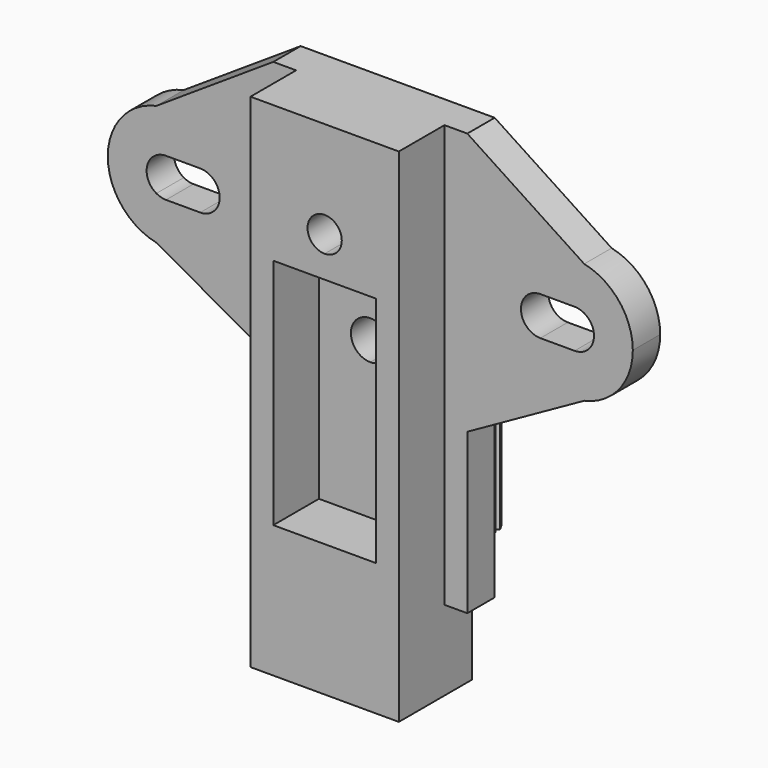
from build123d import *

# Parameters (mm, degrees)
F0_W     = 2
F0_H     = 20.4
F0_W_2   = 6.5
F0_H_2   = 7
F1_DEPTH = 8
F2_DEPTH = 3
F4_DEPTH = 13


with BuildPart() as f1:
    # F0 (on Front) → F1 (new body)
    with BuildSketch(Plane.XZ):
        with BuildLine():
            Line((-6.5, 37), (-6.5, 25))
            Line((-6.5, 25), (-4.5, 25))
            Line((-4.5, 25), (0, 25))
            Line((0, 25), (0, 27))
            ThreePointArc((0, 27), (-1.5, 28.5), (0, 30))
            Line((0, 30), (0, 37))
            Line((0, 37), (-6.5, 37))
        make_face()
        with BuildLine():
            Line((0, 25), (4.5, 25))
            Line((4.5, 25), (6.5, 25))
            Line((6.5, 25), (6.5, 37))
            Line((6.5, 37), (0, 37))
            Line((0, 37), (0, 30))
            ThreePointArc((0, 30), (1.0606601718, 29.5606601718), (1.5, 28.5))
            ThreePointArc((1.5, 28.5), (1.0606601718, 27.4393398282), (0, 27))
            Line((0, 27), (0, 25))
        make_face()
        with Locations((5.5, 14.8)):
            Rectangle(F0_W, F0_H)
        Polygon((0, 4.6), (0, 0), (6.5, 0), (6.5, 4.6), (4.5, 4.6), align=None)
        Polygon((-6.5, 0), (0, 0), (0, 4.6), (-4.5, 4.6), (-6.5, 4.6), align=None)
        with Locations((-3.25, -3.5)):
            Rectangle(F0_W_2, F0_H_2)
        with Locations((3.25, -3.5)):
            Rectangle(F0_W_2, F0_H_2)
        with Locations((-5.5, 14.8)):
            Rectangle(F0_W, F0_H)
    extrude(amount=F1_DEPTH)

    # F0 (on Front) → F2 (join)
    with BuildSketch(Plane.XZ):
        Polygon((-8.5, 0), (-6.5, 0), (-6.5, 4.6), (-6.5, 25), (-6.5, 37), (-8.5, 37), (-8.5, 14), align=None)
        with BuildLine():
            Line((-18.7444198489, 19.7226613516), (-8.5, 14))
            Line((-8.5, 14), (-8.5, 37))
            Line((-8.5, 37), (-18.7444198489, 30.2773386484))
            ThreePointArc((-18.7444198489, 30.2773386484), (-14.2102999531, 29.2035620124), (-12.2, 25))
            ThreePointArc((-12.2, 25), (-14.2102999531, 20.7964379876), (-18.7444198489, 19.7226613516))
        make_face()
        with BuildLine():
            Line((-4.5, 4.6), (0, 4.6))
            Line((0, 4.6), (0, 15.1))
            ThreePointArc((0, 15.1), (-3.2, 18.3), (0, 21.5))
            Line((0, 21.5), (0, 25))
            Line((0, 25), (-4.5, 25))
            Line((-4.5, 25), (-4.5, 4.6))
        make_face()
        with BuildLine():
            Line((0, 15.1), (0, 4.6))
            Line((0, 4.6), (4.5, 4.6))
            Line((4.5, 4.6), (4.5, 25))
            Line((4.5, 25), (0, 25))
            Line((0, 25), (0, 21.5))
            ThreePointArc((0, 21.5), (2.2627416998, 20.5627416998), (3.2, 18.3))
            ThreePointArc((3.2, 18.3), (2.2627416998, 16.0372583002), (0, 15.1))
        make_face()
        with BuildLine():
            Line((8.5, 37), (8.5, 14))
            Line((8.5, 14), (18.7444198489, 19.7226613516))
            ThreePointArc((18.7444198489, 19.7226613516), (12.2, 25), (18.7444198489, 30.2773386484))
            Line((18.7444198489, 30.2773386484), (8.5, 37))
        make_face()
        Polygon((6.5, 4.6), (6.5, 0), (8.5, 0), (8.5, 14), (8.5, 37), (6.5, 37), (6.5, 25), align=None)
        with BuildLine():
            Line((-18.7444198489, 23.5245491812), (-18.7444198489, 19.7226613516))
            ThreePointArc((-18.7444198489, 19.7226613516), (-14.2102999531, 20.7964379876), (-12.2, 25))
            ThreePointArc((-12.2, 25), (-14.2102999531, 29.2035620124), (-18.7444198489, 30.2773386484))
            Line((-18.7444198489, 30.2773386484), (-18.7444198489, 26.4754508188))
            ThreePointArc((-18.7444198489, 26.4754508188), (-18.3368830553, 26.6429038913), (-17.9, 26.7))
            Line((-17.9, 26.7), (-14.8999996376, 26.7))
            ThreePointArc((-14.8999996376, 26.7), (-13.6979183439, 26.2020813999), (-13.2, 25))
            ThreePointArc((-13.2, 25), (-13.6979183439, 23.7979186001), (-14.8999996376, 23.3))
            Line((-14.8999996376, 23.3), (-17.9, 23.3))
            ThreePointArc((-17.9, 23.3), (-18.3368830553, 23.3570961087), (-18.7444198489, 23.5245491812))
        make_face()
        with BuildLine():
            ThreePointArc((-18.7444198489, 30.2773386484), (-23, 25), (-18.7444198489, 19.7226613516))
            Line((-18.7444198489, 19.7226613516), (-18.7444198489, 23.5245491812))
            ThreePointArc((-18.7444198489, 23.5245491812), (-19.6, 25), (-18.7444198489, 26.4754508188))
            Line((-18.7444198489, 26.4754508188), (-18.7444198489, 30.2773386484))
        make_face()
        with BuildLine():
            Line((18.7444198489, 23.5245491812), (18.7444198489, 19.7226613516))
            ThreePointArc((18.7444198489, 19.7226613516), (21.8035620124, 21.6102999531), (23, 25))
            ThreePointArc((23, 25), (21.8035620124, 28.3897000469), (18.7444198489, 30.2773386484))
            Line((18.7444198489, 30.2773386484), (18.7444198489, 26.4754508188))
            ThreePointArc((18.7444198489, 26.4754508188), (19.3706314534, 25.8527855114), (19.6, 25))
            ThreePointArc((19.6, 25), (19.3706314534, 24.1472144886), (18.7444198489, 23.5245491812))
        make_face()
        with BuildLine():
            ThreePointArc((18.7444198489, 30.2773386484), (12.2, 25), (18.7444198489, 19.7226613516))
            Line((18.7444198489, 19.7226613516), (18.7444198489, 23.5245491812))
            ThreePointArc((18.7444198489, 23.5245491812), (18.3368830553, 23.3570961087), (17.9, 23.3))
            Line((17.9, 23.3), (14.8999996376, 23.3))
            ThreePointArc((14.8999996376, 23.3), (13.2, 25), (14.8999996376, 26.7))
            Line((14.8999996376, 26.7), (17.9, 26.7))
            ThreePointArc((17.9, 26.7), (18.3368830553, 26.6429038913), (18.7444198489, 26.4754508188))
            Line((18.7444198489, 26.4754508188), (18.7444198489, 30.2773386484))
        make_face()
        with BuildLine():
            ThreePointArc((0, 21.5), (-3.2, 18.3), (0, 15.1))
            Line((0, 15.1), (0, 16.6))
            ThreePointArc((0, 16.6), (-1.7, 18.3), (0, 20))
            Line((0, 20), (0, 21.5))
        make_face()
        with BuildLine():
            Line((0, 16.6), (0, 15.1))
            ThreePointArc((0, 15.1), (2.2627416998, 16.0372583002), (3.2, 18.3))
            ThreePointArc((3.2, 18.3), (2.2627416998, 20.5627416998), (0, 21.5))
            Line((0, 21.5), (0, 20))
            ThreePointArc((0, 20), (1.202081528, 19.502081528), (1.7, 18.3))
            ThreePointArc((1.7, 18.3), (1.202081528, 17.097918472), (0, 16.6))
        make_face()
    extrude(amount=F2_DEPTH)


with BuildPart() as f4:
    # F3 (on Top) → F4 (new body)
    with BuildSketch(Plane.XY):
        with BuildLine():
            add(Edge.make_bspline(
                [(0, 4.4954122202), (-0.4962129107, 4.4954122202), (-1.2134270742, 4.8567158568), (-1.6510507558, 5.1269470714), (-2, 5.5703356247)],
                knots=[0, 0, 0, 0, 0.5093904984, 1, 1, 1, 1], degree=3))
            add(Edge.make_bspline(
                [(0, 4.4954122202), (0.4962129107, 4.4954122202), (1.2134270742, 4.8567158568), (1.6510507558, 5.1269470714), (2, 5.5703356247)],
                knots=[0, 0, 0, 0, 0.5093904984, 1, 1, 1, 1], degree=3))
            Line((2, 5.5703356247), (2.5, 5.5703356247))
            Line((2.5, 5.5703356247), (2.5, 7.5703356247))
            Line((2.5, 7.5703356247), (2, 7.5703356247))
            Line((2, 7.5703356247), (2.5, 8.0828322098))
            add(Edge.make_bspline(
                [(2.5, 8.0828322098), (2.2650851883, 8.5345596151), (2.0555071016, 8.8149741689), (1.6760997611, 9.1983581073), (1.169062252, 9.5528497336), (0.6997972854, 9.6686221595), (0, 9.6954122202)],
                knots=[0, 0, 0, 0, 0.2752762405, 0.4712298953, 0.6789504876, 1, 1, 1, 1], degree=3))
            add(Edge.make_bspline(
                [(-2.5, 8.0828322098), (-2.2650851883, 8.5345596151), (-2.0555071016, 8.8149741689), (-1.6760997611, 9.1983581073), (-1.169062252, 9.5528497336), (-0.6997972854, 9.6686221595), (0, 9.6954122202)],
                knots=[0, 0, 0, 0, 0.2752762405, 0.4712298953, 0.6789504876, 1, 1, 1, 1], degree=3))
            Line((-2.5, 8.0828322098), (-2, 7.5703356247))
            Line((-2, 7.5703356247), (-2.5, 7.5703356247))
            Line((-2.5, 7.5703356247), (-2.5, 5.5703356247))
            Line((-2.5, 5.5703356247), (-2, 5.5703356247))
        make_face()
    extrude(amount=F4_DEPTH)


solid = Compound([f1.part, f4.part])
